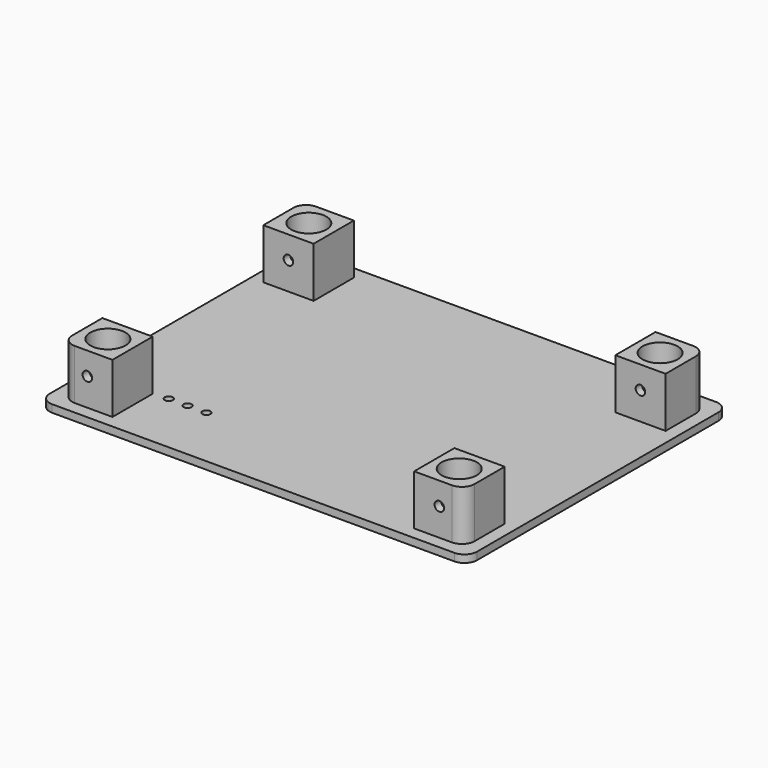
from build123d import *

# Parameters (mm, degrees)
PAD_DEPTH       = 3
SKETCH002_W     = 20
SKETCH002_H     = 20
PAD001_DEPTH    = 20
FILLET_R        = 5
SKETCH003_R     = 1.9
POCKET_DEPTH    = 125.001
SKETCH004_R     = 7
POCKET001_DEPTH = 23.001
SKETCH005_R     = 1.6
POCKET002_DEPTH = 3.001


with BuildPart() as part:
    # Sketch → Pad (new body)
    with BuildSketch(Plane.XY):
        with BuildLine():
            Line((-80, 65), (80, 65))
            ThreePointArc((85, 60), (83.535534, 63.535534), (80, 65))
            Line((85, 60), (85, -60))
            ThreePointArc((80, -65), (83.535534, -63.535534), (85, -60))
            Line((80, -65), (-80, -65))
            ThreePointArc((-85, -60), (-83.535534, -63.535534), (-80, -65))
            Line((-85, -60), (-85, 60))
            ThreePointArc((-80, 65), (-83.535534, 63.535534), (-85, 60))
        make_face()
    extrude(amount=PAD_DEPTH)

    # Sketch002 → Pad001 (new body)
    with BuildSketch(Plane.XY.offset(3)):
        with Locations((-70, 50)):
            Rectangle(SKETCH002_W, SKETCH002_H)
        with Locations((70, 50)):
            Rectangle(SKETCH002_W, SKETCH002_H)
        with Locations((70, -50)):
            Rectangle(SKETCH002_W, SKETCH002_H)
        with Locations((-70, -50)):
            Rectangle(SKETCH002_W, SKETCH002_H)
    extrude(amount=PAD001_DEPTH)

    # Fillet
    fillet_edges = [part.edges().sort_by_distance(p)[0] for p in [
        (-80, 60, 13),
        (80, 60, 13),
        (-80, -60, 13),
        (80, -60, 13),
    ]]
    fillet(fillet_edges, radius=FILLET_R)

    # Sketch003 → Pocket (cut, through all)
    with BuildSketch(Plane.XZ.offset(60)):
        with Locations((-70, 14)):
            Circle(SKETCH003_R)
        with Locations((70, 14)):
            Circle(SKETCH003_R)
    extrude(amount=-POCKET_DEPTH, mode=Mode.SUBTRACT)

    # Sketch004 → Pocket001 (cut, through all)
    with BuildSketch(Plane.XY.offset(23)):
        with Locations((-69.859705, 49.927501)):
            Circle(SKETCH004_R)
        with Locations((69.859705, 49.927501)):
            Circle(SKETCH004_R)
        with Locations((69.859705, -49.927501)):
            Circle(SKETCH004_R)
        with Locations((-69.859705, -49.927501)):
            Circle(SKETCH004_R)
    extrude(amount=-POCKET001_DEPTH, mode=Mode.SUBTRACT)

    # Sketch005 → Pocket002 (cut, through all)
    with BuildSketch(Plane.XY.offset(3)):
        with Locations((-54.025897, -39.472939)):
            Circle(SKETCH005_R)
        with Locations((-46.525897, -39.472939)):
            Circle(SKETCH005_R)
        with Locations((-39.025897, -39.472939)):
            Circle(SKETCH005_R)
    extrude(amount=-POCKET002_DEPTH, mode=Mode.SUBTRACT)


solid = part.part
